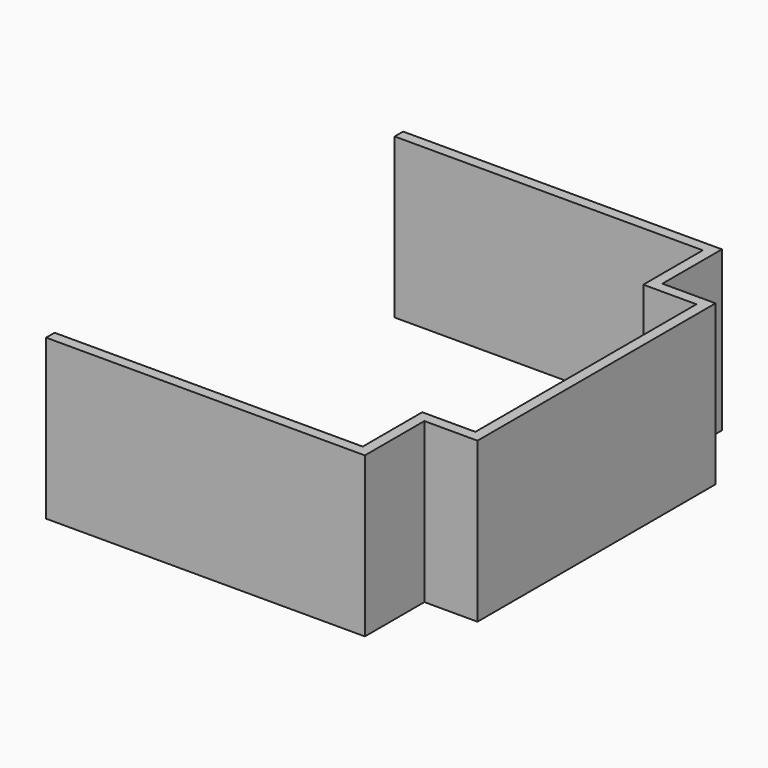
from build123d import *

# Parameters (mm, degrees)
F1_DEPTH = 38.1


with BuildPart() as f1:
    # F0 (on Top) → F1 (new body)
    with BuildSketch(Plane.XY):
        Polygon((-8.506971, 40.060588), (-84.706971, 40.060588), (-84.706971, 37.520588), (-11.046971, 37.520588), (-11.046971, 19.740588), (1.653029, 19.740588), (1.653029, -46.299412), (-11.046971, -46.299412), (-11.046971, -64.079412), (-84.706971, -64.079412), (-84.706971, -66.619412), (-8.506971, -66.619412), (-8.506971, -48.839412), (4.193029, -48.839412), (4.193029, 22.280588), (-8.506971, 22.280588), align=None)
    extrude(amount=F1_DEPTH)


solid = f1.part
